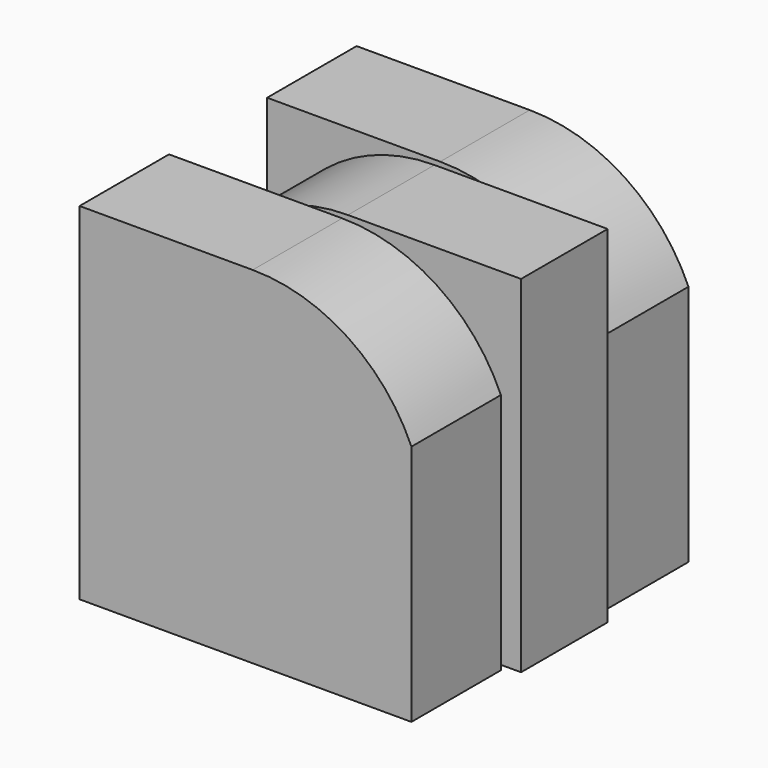
from build123d import *

# Parameters (mm, degrees)
F2_R     = 1.5625
F2_R_2   = 1.4375
F3_DEPTH = 3
F4_DEPTH = 1.0625
F5_DEPTH = 0.9375
F6_W     = 0.25
F6_H     = 6
F7_DEPTH = 12.5
F8_DEPTH = 3


with BuildPart() as f3:
    # F2 (on Front) → F3 (new body, symmetric)
    with BuildSketch(Plane.XZ):
        with BuildLine():
            ThreePointArc((0, -3), (2.1213203436, -2.1213203436), (3, 0))
            ThreePointArc((3, 0), (2.1213203436, 2.1213203436), (0, 3))
            ThreePointArc((0, 3), (-2.1213203436, 2.1213203436), (-3, 0))
            ThreePointArc((-3, 0), (-2.1213203436, -2.1213203436), (0, -3))
        make_face()
        Circle(F2_R, mode=Mode.SUBTRACT)
        Circle(F2_R)
        Circle(F2_R_2, mode=Mode.SUBTRACT)
        Circle(F2_R_2)
        with BuildLine():
            Line((3, -3), (3, 0))
            ThreePointArc((3, 0), (2.1213203436, -2.1213203436), (0, -3))
            Line((0, -3), (3, -3))
        make_face()
        with BuildLine():
            Line((-3, -3), (0, -3))
            ThreePointArc((0, -3), (-2.1213203436, -2.1213203436), (-3, 0))
            Line((-3, 0), (-3, -3))
        make_face()
        with BuildLine():
            ThreePointArc((-3, 0), (-2.1213203436, 2.1213203436), (0, 3))
            Line((0, 3), (-3, 3))
            Line((-3, 3), (-3, 0))
        make_face()
    extrude(amount=F3_DEPTH, both=True)

    # F2 (on Front) → F4 (cut, symmetric)
    with BuildSketch(Plane.XZ):
        with BuildLine():
            ThreePointArc((0, -3), (2.1213203436, -2.1213203436), (3, 0))
            ThreePointArc((3, 0), (2.1213203436, 2.1213203436), (0, 3))
            ThreePointArc((0, 3), (-2.1213203436, 2.1213203436), (-3, 0))
            ThreePointArc((-3, 0), (-2.1213203436, -2.1213203436), (0, -3))
        make_face()
        Circle(F2_R, mode=Mode.SUBTRACT)
        Circle(F2_R)
        Circle(F2_R_2, mode=Mode.SUBTRACT)
        with BuildLine():
            Line((3, -3), (3, 0))
            ThreePointArc((3, 0), (2.1213203436, -2.1213203436), (0, -3))
            Line((0, -3), (3, -3))
        make_face()
        with BuildLine():
            Line((-3, -3), (0, -3))
            ThreePointArc((0, -3), (-2.1213203436, -2.1213203436), (-3, 0))
            Line((-3, 0), (-3, -3))
        make_face()
        with BuildLine():
            ThreePointArc((-3, 0), (-2.1213203436, 2.1213203436), (0, 3))
            Line((0, 3), (-3, 3))
            Line((-3, 3), (-3, 0))
        make_face()
    extrude(amount=F4_DEPTH, both=True, mode=Mode.SUBTRACT)

    # F6 (on Front) → F8 (cut, symmetric)
    with BuildSketch(Plane.XZ):
        with Locations((2.875, 0)):
            Rectangle(F6_W, F6_H)
    extrude(amount=F8_DEPTH, both=True, mode=Mode.SUBTRACT)


with BuildPart() as f5:
    # F2 (on Front) → F5 (new body, symmetric)
    with BuildSketch(Plane.XZ):
        with BuildLine():
            ThreePointArc((0, -3), (2.1213203436, -2.1213203436), (3, 0))
            ThreePointArc((3, 0), (2.1213203436, 2.1213203436), (0, 3))
            ThreePointArc((0, 3), (-2.1213203436, 2.1213203436), (-3, 0))
            ThreePointArc((-3, 0), (-2.1213203436, -2.1213203436), (0, -3))
        make_face()
        Circle(F2_R, mode=Mode.SUBTRACT)
        with BuildLine():
            Line((-3, -3), (0, -3))
            ThreePointArc((0, -3), (-2.1213203436, -2.1213203436), (-3, 0))
            Line((-3, 0), (-3, -3))
        make_face()
        with BuildLine():
            Line((3, -3), (3, 0))
            ThreePointArc((3, 0), (2.1213203436, -2.1213203436), (0, -3))
            Line((0, -3), (3, -3))
        make_face()
        with BuildLine():
            ThreePointArc((0, 3), (2.1213203436, 2.1213203436), (3, 0))
            Line((3, 0), (3, 3))
            Line((3, 3), (0, 3))
        make_face()
    extrude(amount=F5_DEPTH, both=True)

    # F6 (on Front) → F7 (cut, symmetric)
    with BuildSketch(Plane.XZ):
        with Locations((-2.875, 0)):
            Rectangle(F6_W, F6_H)
    extrude(amount=F7_DEPTH, both=True, mode=Mode.SUBTRACT)


solid = Compound([f3.part, f5.part])
